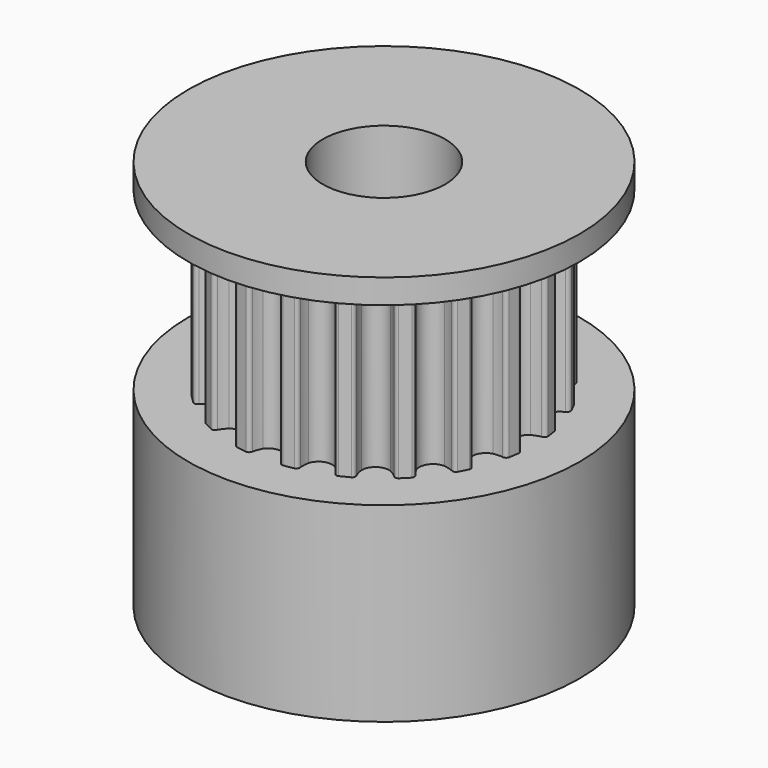
from build123d import *

# Parameters (mm, degrees)
SKETCHGEAR_R    = 2.5
PAD_DEPTH       = 7.2
SKETCHBASE_R    = 8
SKETCHBASE_R_2  = 2.5
PADBASE_DEPTH   = 7.8
SKETCHTOP_R     = 8
SKETCHTOP_R_2   = 2.5
PADTOP_DEPTH    = 1
SKETCH_R        = 2
POCKET_DEPTH    = 8.001
SKETCH001_R     = 2
POCKET001_DEPTH = 8.001


with BuildPart() as part:
    # SketchGear → Pad (new body)
    with BuildSketch(Plane.XY):
        with BuildLine():
            ThreePointArc((6.112198, -0.75), (6.068264, -0.643934), (5.962198, -0.6))
            ThreePointArc((5.962198, -0.6), (5.782909, -0.544218), (5.612198, -0.466025))
            ThreePointArc((5.612198, -0.466025), (5.362198, 0), (5.612198, 0.466025))
            ThreePointArc((5.612198, 0.466025), (5.782909, 0.544218), (5.962198, 0.6))
            ThreePointArc((5.962198, 0.6), (6.068264, 0.643934), (6.112198, 0.75))
            Line((6.112198, 0.75), (6.044808, 1.175481))
            ThreePointArc((6.044808, 1.175481), (5.970248, 1.262779), (5.855797, 1.271787))
            ThreePointArc((5.855797, 1.271787), (5.668045, 1.269435), (5.481527, 1.291048))
            ThreePointArc((5.481527, 1.291048), (5.099753, 1.65701), (5.193507, 2.177481))
            ThreePointArc((5.193507, 2.177481), (5.331701, 2.304599), (5.484977, 2.413054))
            ThreePointArc((5.484977, 2.413054), (5.572275, 2.487614), (5.581283, 2.602065))
            Line((5.581283, 2.602065), (5.385711, 2.985897))
            ThreePointArc((5.385711, 2.985897), (5.287823, 3.045882), (5.17619, 3.019082))
            ThreePointArc((5.17619, 3.019082), (4.998354, 2.958827), (4.814286, 2.921745))
            ThreePointArc((4.814286, 2.921745), (4.338109, 3.151821), (4.26644, 3.67579))
            ThreePointArc((4.26644, 3.67579), (4.358588, 3.83939), (4.470848, 3.989902))
            ThreePointArc((4.470848, 3.989902), (4.530834, 4.087789), (4.504033, 4.199422))
            Line((4.504033, 4.199422), (4.199422, 4.504033))
            ThreePointArc((4.199422, 4.504033), (4.087789, 4.530834), (3.989902, 4.470848))
            ThreePointArc((3.989902, 4.470848), (3.83939, 4.358588), (3.67579, 4.26644))
            ThreePointArc((3.67579, 4.26644), (3.151821, 4.338109), (2.921745, 4.814286))
            ThreePointArc((2.921745, 4.814286), (2.958827, 4.998354), (3.019082, 5.17619))
            ThreePointArc((3.019082, 5.17619), (3.045882, 5.287823), (2.985897, 5.385711))
            Line((2.985897, 5.385711), (2.602065, 5.581283))
            ThreePointArc((2.602065, 5.581283), (2.487614, 5.572275), (2.413054, 5.484977))
            ThreePointArc((2.413054, 5.484977), (2.304599, 5.331701), (2.177481, 5.193507))
            ThreePointArc((2.177481, 5.193507), (1.65701, 5.099753), (1.291048, 5.481527))
            ThreePointArc((1.291048, 5.481527), (1.269435, 5.668045), (1.271787, 5.855797))
            ThreePointArc((1.271787, 5.855797), (1.262779, 5.970248), (1.175481, 6.044808))
            Line((1.175481, 6.044808), (0.75, 6.112198))
            ThreePointArc((0.75, 6.112198), (0.643934, 6.068264), (0.6, 5.962198))
            ThreePointArc((0.6, 5.962198), (0.544218, 5.782909), (0.466025, 5.612198))
            ThreePointArc((0.466025, 5.612198), (0, 5.362198), (-0.466025, 5.612198))
            ThreePointArc((-0.466025, 5.612198), (-0.544218, 5.782909), (-0.6, 5.962198))
            ThreePointArc((-0.6, 5.962198), (-0.643934, 6.068264), (-0.75, 6.112198))
            Line((-0.75, 6.112198), (-1.175481, 6.044808))
            ThreePointArc((-1.175481, 6.044808), (-1.262779, 5.970248), (-1.271787, 5.855797))
            ThreePointArc((-1.271787, 5.855797), (-1.269435, 5.668045), (-1.291048, 5.481527))
            ThreePointArc((-1.291048, 5.481527), (-1.65701, 5.099753), (-2.177481, 5.193507))
            ThreePointArc((-2.177481, 5.193507), (-2.304599, 5.331701), (-2.413054, 5.484977))
            ThreePointArc((-2.413054, 5.484977), (-2.487614, 5.572275), (-2.602065, 5.581283))
            Line((-2.602065, 5.581283), (-2.985897, 5.385711))
            ThreePointArc((-2.985897, 5.385711), (-3.045882, 5.287823), (-3.019082, 5.17619))
            ThreePointArc((-3.019082, 5.17619), (-2.958827, 4.998354), (-2.921745, 4.814286))
            ThreePointArc((-2.921745, 4.814286), (-3.151821, 4.338109), (-3.67579, 4.26644))
            ThreePointArc((-3.67579, 4.26644), (-3.83939, 4.358588), (-3.989902, 4.470848))
            ThreePointArc((-3.989902, 4.470848), (-4.087789, 4.530834), (-4.199422, 4.504033))
            Line((-4.199422, 4.504033), (-4.504033, 4.199422))
            ThreePointArc((-4.504033, 4.199422), (-4.530834, 4.087789), (-4.470848, 3.989902))
            ThreePointArc((-4.470848, 3.989902), (-4.358588, 3.83939), (-4.26644, 3.67579))
            ThreePointArc((-4.26644, 3.67579), (-4.338109, 3.151821), (-4.814286, 2.921745))
            ThreePointArc((-4.814286, 2.921745), (-4.998354, 2.958827), (-5.17619, 3.019082))
            ThreePointArc((-5.17619, 3.019082), (-5.287823, 3.045882), (-5.385711, 2.985897))
            Line((-5.385711, 2.985897), (-5.581283, 2.602065))
            ThreePointArc((-5.581283, 2.602065), (-5.572275, 2.487614), (-5.484977, 2.413054))
            ThreePointArc((-5.484977, 2.413054), (-5.331701, 2.304599), (-5.193507, 2.177481))
            ThreePointArc((-5.193507, 2.177481), (-5.099753, 1.65701), (-5.481527, 1.291048))
            ThreePointArc((-5.481527, 1.291048), (-5.668045, 1.269435), (-5.855797, 1.271787))
            ThreePointArc((-5.855797, 1.271787), (-5.970248, 1.262779), (-6.044808, 1.175481))
            Line((-6.044808, 1.175481), (-6.112198, 0.75))
            ThreePointArc((-6.112198, 0.75), (-6.068264, 0.643934), (-5.962198, 0.6))
            ThreePointArc((-5.962198, 0.6), (-5.782909, 0.544218), (-5.612198, 0.466025))
            ThreePointArc((-5.612198, 0.466025), (-5.362198, 0), (-5.612198, -0.466025))
            ThreePointArc((-5.612198, -0.466025), (-5.782909, -0.544218), (-5.962198, -0.6))
            ThreePointArc((-5.962198, -0.6), (-6.068264, -0.643934), (-6.112198, -0.75))
            Line((-6.112198, -0.75), (-6.044808, -1.175481))
            ThreePointArc((-6.044808, -1.175481), (-5.970248, -1.262779), (-5.855797, -1.271787))
            ThreePointArc((-5.855797, -1.271787), (-5.668045, -1.269435), (-5.481527, -1.291048))
            ThreePointArc((-5.481527, -1.291048), (-5.099753, -1.65701), (-5.193507, -2.177481))
            ThreePointArc((-5.193507, -2.177481), (-5.331701, -2.304599), (-5.484977, -2.413054))
            ThreePointArc((-5.484977, -2.413054), (-5.572275, -2.487614), (-5.581283, -2.602065))
            Line((-5.581283, -2.602065), (-5.385711, -2.985897))
            ThreePointArc((-5.385711, -2.985897), (-5.287823, -3.045882), (-5.17619, -3.019082))
            ThreePointArc((-5.17619, -3.019082), (-4.998354, -2.958827), (-4.814286, -2.921745))
            ThreePointArc((-4.814286, -2.921745), (-4.338109, -3.151821), (-4.26644, -3.67579))
            ThreePointArc((-4.26644, -3.67579), (-4.358588, -3.83939), (-4.470848, -3.989902))
            ThreePointArc((-4.470848, -3.989902), (-4.530834, -4.087789), (-4.504033, -4.199422))
            Line((-4.504033, -4.199422), (-4.199422, -4.504033))
            ThreePointArc((-4.199422, -4.504033), (-4.087789, -4.530834), (-3.989902, -4.470848))
            ThreePointArc((-3.989902, -4.470848), (-3.83939, -4.358588), (-3.67579, -4.26644))
            ThreePointArc((-3.67579, -4.26644), (-3.151821, -4.338109), (-2.921745, -4.814286))
            ThreePointArc((-2.921745, -4.814286), (-2.958827, -4.998354), (-3.019082, -5.17619))
            ThreePointArc((-3.019082, -5.17619), (-3.045882, -5.287823), (-2.985897, -5.385711))
            Line((-2.985897, -5.385711), (-2.602065, -5.581283))
            ThreePointArc((-2.602065, -5.581283), (-2.487614, -5.572275), (-2.413054, -5.484977))
            ThreePointArc((-2.413054, -5.484977), (-2.304599, -5.331701), (-2.177481, -5.193507))
            ThreePointArc((-2.177481, -5.193507), (-1.65701, -5.099753), (-1.291048, -5.481527))
            ThreePointArc((-1.291048, -5.481527), (-1.269435, -5.668045), (-1.271787, -5.855797))
            ThreePointArc((-1.271787, -5.855797), (-1.262779, -5.970248), (-1.175481, -6.044808))
            Line((-1.175481, -6.044808), (-0.75, -6.112198))
            ThreePointArc((-0.75, -6.112198), (-0.643934, -6.068264), (-0.6, -5.962198))
            ThreePointArc((-0.6, -5.962198), (-0.544218, -5.782909), (-0.466025, -5.612198))
            ThreePointArc((-0.466025, -5.612198), (0, -5.362198), (0.466025, -5.612198))
            ThreePointArc((0.466025, -5.612198), (0.544218, -5.782909), (0.6, -5.962198))
            ThreePointArc((0.6, -5.962198), (0.643934, -6.068264), (0.75, -6.112198))
            Line((0.75, -6.112198), (1.175481, -6.044808))
            ThreePointArc((1.175481, -6.044808), (1.262779, -5.970248), (1.271787, -5.855797))
            ThreePointArc((1.271787, -5.855797), (1.269435, -5.668045), (1.291048, -5.481527))
            ThreePointArc((1.291048, -5.481527), (1.65701, -5.099753), (2.177481, -5.193507))
            ThreePointArc((2.177481, -5.193507), (2.304599, -5.331701), (2.413054, -5.484977))
            ThreePointArc((2.413054, -5.484977), (2.487614, -5.572275), (2.602065, -5.581283))
            Line((2.602065, -5.581283), (2.985897, -5.385711))
            ThreePointArc((2.985897, -5.385711), (3.045882, -5.287823), (3.019082, -5.17619))
            ThreePointArc((3.019082, -5.17619), (2.958827, -4.998354), (2.921745, -4.814286))
            ThreePointArc((2.921745, -4.814286), (3.151821, -4.338109), (3.67579, -4.26644))
            ThreePointArc((3.67579, -4.26644), (3.83939, -4.358588), (3.989902, -4.470848))
            ThreePointArc((3.989902, -4.470848), (4.087789, -4.530834), (4.199422, -4.504033))
            Line((4.199422, -4.504033), (4.504033, -4.199422))
            ThreePointArc((4.504033, -4.199422), (4.530834, -4.087789), (4.470848, -3.989902))
            ThreePointArc((4.470848, -3.989902), (4.358588, -3.83939), (4.26644, -3.67579))
            ThreePointArc((4.26644, -3.67579), (4.338109, -3.151821), (4.814286, -2.921745))
            ThreePointArc((4.814286, -2.921745), (4.998354, -2.958827), (5.17619, -3.019082))
            ThreePointArc((5.17619, -3.019082), (5.287823, -3.045882), (5.385711, -2.985897))
            Line((5.385711, -2.985897), (5.581283, -2.602065))
            ThreePointArc((5.581283, -2.602065), (5.572275, -2.487614), (5.484977, -2.413054))
            ThreePointArc((5.484977, -2.413054), (5.331701, -2.304599), (5.193507, -2.177481))
            ThreePointArc((5.193507, -2.177481), (5.099753, -1.65701), (5.481527, -1.291048))
            ThreePointArc((5.481527, -1.291048), (5.668045, -1.269435), (5.855797, -1.271787))
            ThreePointArc((5.855797, -1.271787), (5.970248, -1.262779), (6.044808, -1.175481))
            Line((6.044808, -1.175481), (6.112198, -0.75))
        make_face()
        Circle(SKETCHGEAR_R, mode=Mode.SUBTRACT)
    extrude(amount=PAD_DEPTH)

    # SketchBase → PadBase (join)
    with BuildSketch(Plane.XY.offset(-7.8)):
        Circle(SKETCHBASE_R)
        Circle(SKETCHBASE_R_2, mode=Mode.SUBTRACT)
    extrude(amount=PADBASE_DEPTH)

    # SketchTop → PadTop (join)
    with BuildSketch(Plane.XY.offset(7.2)):
        Circle(SKETCHTOP_R)
        Circle(SKETCHTOP_R_2, mode=Mode.SUBTRACT)
    extrude(amount=PADTOP_DEPTH)

    # Sketch → Pocket (cut, through all)
    with BuildSketch(Plane.YZ):
        with Locations((0, -3.9)):
            Circle(SKETCH_R)
    extrude(amount=-POCKET_DEPTH, mode=Mode.SUBTRACT)

    # Sketch001 → Pocket001 (cut, through all)
    with BuildSketch(Plane.XZ):
        with Locations((0, -3.9)):
            Circle(SKETCH001_R)
    extrude(amount=-POCKET001_DEPTH, mode=Mode.SUBTRACT)


solid = part.part
